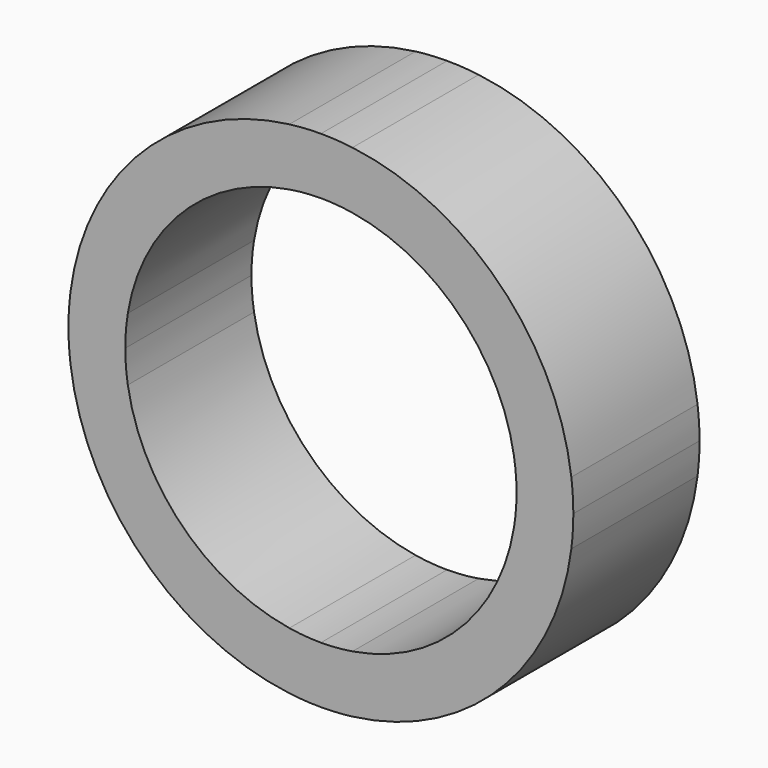
from build123d import *

# Parameters (mm, degrees)
F1_DEPTH = 25


with BuildPart() as f1:
    # F0 (on Front) → F1 (new body)
    with BuildSketch(Plane.XZ):
        with BuildLine():
            Line((5, 30.5941170816), (5, 39.686269666))
            ThreePointArc((5, 39.686269666), (2.5049165017, 39.9214903695), (0, 40))
            Line((0, 40), (0, 31))
            ThreePointArc((0, 31), (2.5082235219, 30.8983626551), (5, 30.5941170816))
        make_face()
        with BuildLine():
            Line((0, 31), (0, 40))
            ThreePointArc((0, 40), (-2.5049165017, 39.9214903695), (-5, 39.686269666))
            Line((-5, 39.686269666), (-5, 30.5941170816))
            ThreePointArc((-5, 30.5941170816), (-2.5082235219, 30.8983626551), (0, 31))
        make_face()
        with BuildLine():
            Line((-5, 30.5941170816), (-5, 39.686269666))
            ThreePointArc((-5, 39.686269666), (-28.2842712475, 28.2842712475), (-39.686269666, 5))
            Line((-39.686269666, 5), (-30.5941170816, 5))
            ThreePointArc((-30.5941170816, 5), (-21.9203102168, 21.9203102168), (-5, 30.5941170816))
        make_face()
        with BuildLine():
            Line((-30.5941170816, 5), (-39.686269666, 5))
            ThreePointArc((-39.686269666, 5), (-39.9214903695, 2.5049165017), (-40, 0))
            Line((-40, 0), (-31, 0))
            ThreePointArc((-31, 0), (-30.8983626551, 2.5082235219), (-30.5941170816, 5))
        make_face()
        with BuildLine():
            ThreePointArc((-40, 0), (-39.9214903695, -2.5049165017), (-39.686269666, -5))
            Line((-39.686269666, -5), (-30.5941170816, -5))
            ThreePointArc((-30.5941170816, -5), (-30.8983626551, -2.5082235219), (-31, 0))
            Line((-31, 0), (-40, 0))
        make_face()
        with BuildLine():
            ThreePointArc((-39.686269666, -5), (-28.2842712475, -28.2842712475), (-5, -39.686269666))
            Line((-5, -39.686269666), (-5, -30.5941170816))
            ThreePointArc((-5, -30.5941170816), (-21.9203102168, -21.9203102168), (-30.5941170816, -5))
            Line((-30.5941170816, -5), (-39.686269666, -5))
        make_face()
        with BuildLine():
            ThreePointArc((-5, -39.686269666), (-2.5049165017, -39.9214903695), (0, -40))
            Line((0, -40), (0, -31))
            ThreePointArc((0, -31), (-2.5082235219, -30.8983626551), (-5, -30.5941170816))
            Line((-5, -30.5941170816), (-5, -39.686269666))
        make_face()
        with BuildLine():
            ThreePointArc((0, -40), (2.5049165017, -39.9214903695), (5, -39.686269666))
            Line((5, -39.686269666), (5, -30.5941170816))
            ThreePointArc((5, -30.5941170816), (2.5082235219, -30.8983626551), (0, -31))
            Line((0, -31), (0, -40))
        make_face()
        with BuildLine():
            ThreePointArc((5, -39.686269666), (28.2842712475, -28.2842712475), (39.686269666, -5))
            Line((39.686269666, -5), (30.5941170816, -5))
            ThreePointArc((30.5941170816, -5), (21.9203102168, -21.9203102168), (5, -30.5941170816))
            Line((5, -30.5941170816), (5, -39.686269666))
        make_face()
        with BuildLine():
            ThreePointArc((39.686269666, -5), (39.9214903695, -2.5049165017), (40, 0))
            Line((40, 0), (31, 0))
            ThreePointArc((31, 0), (30.8983626551, -2.5082235219), (30.5941170816, -5))
            Line((30.5941170816, -5), (39.686269666, -5))
        make_face()
        with BuildLine():
            Line((31, 0), (40, 0))
            ThreePointArc((40, 0), (39.9214903695, 2.5049165017), (39.686269666, 5))
            Line((39.686269666, 5), (30.5941170816, 5))
            ThreePointArc((30.5941170816, 5), (30.8983626551, 2.5082235219), (31, 0))
        make_face()
        with BuildLine():
            Line((30.5941170816, 5), (39.686269666, 5))
            ThreePointArc((39.686269666, 5), (28.2842712475, 28.2842712475), (5, 39.686269666))
            Line((5, 39.686269666), (5, 30.5941170816))
            ThreePointArc((5, 30.5941170816), (21.9203102168, 21.9203102168), (30.5941170816, 5))
        make_face()
    extrude(amount=F1_DEPTH)


solid = f1.part
